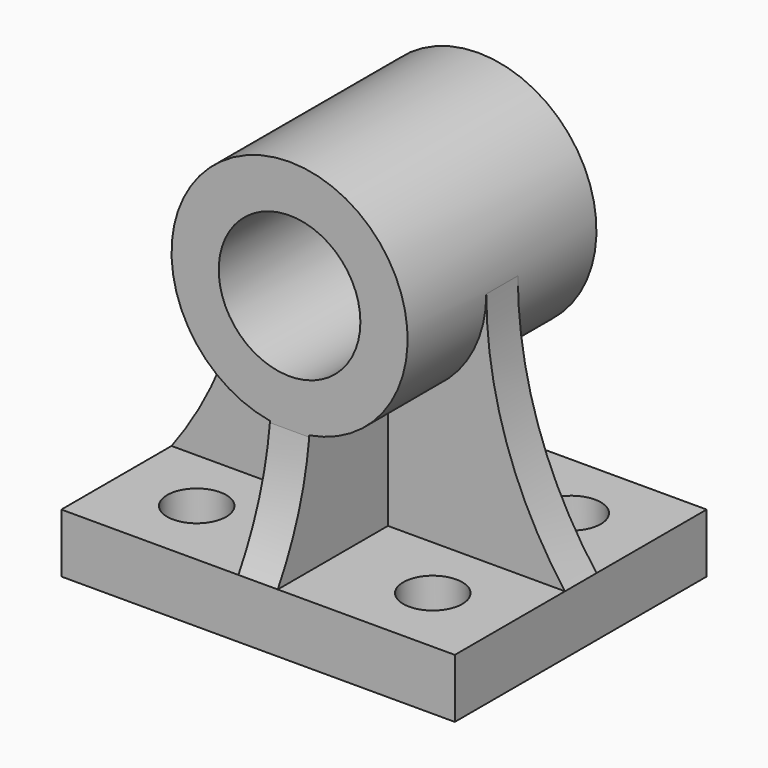
from build123d import *

# Parameters (mm, degrees)
F0_W     = 100
F0_H     = 15
F1_DEPTH = 40
F0_R     = 18
F2_DEPTH = 30
F3_DEPTH = 5
F6_DEPTH = 10
F7_R     = 7.5
F8_DEPTH = 15


with BuildPart() as f1:
    # F0 (on Front) → F1 (new body, symmetric)
    with BuildSketch(Plane.XZ):
        with Locations((50, 7.5)):
            Rectangle(F0_W, F0_H)
    extrude(amount=F1_DEPTH, both=True)



with BuildPart() as f2:
    # F0 (on Front) → F2 (new body, symmetric)
    with BuildSketch(Plane.XZ):
        with BuildLine():
            ThreePointArc((80, 75), (50, 105), (20, 75))
            ThreePointArc((20, 75), (50, 45), (80, 75))
        make_face()
        with Locations((50, 75)):
            Circle(F0_R, mode=Mode.SUBTRACT)
    extrude(amount=F2_DEPTH, both=True)


with BuildPart() as f1_1:
    add(f1.part)

    add(f2.part)  # F3 merges F2
    # F0 (on Front) → F3 (join, symmetric)
    with BuildSketch(Plane.XZ):
        with BuildLine():
            ThreePointArc((20, 75), (14.86833, 43.377223), (0, 15))
            Line((0, 15), (100, 15))
            ThreePointArc((100, 15), (85.13167, 43.377223), (80, 75))
            ThreePointArc((80, 75), (50, 45), (20, 75))
        make_face()
    extrude(amount=F3_DEPTH, both=True)

    # F5 (on offset) → F6 (join)
    with BuildSketch(Plane.YZ.offset(45)):
        with BuildLine():
            ThreePointArc((40, 15), (33.400891, 29.466964), (30, 45))
            Line((30, 45), (30.077839, 53.216796))
            Line((30.077839, 53.216796), (-30, 53.216796))
            Line((-30, 53.216796), (-30, 45))
            ThreePointArc((-30, 45), (-33.400891, 29.466964), (-40, 15))
            Line((-40, 15), (-5, 15))
            Line((-5, 15), (5, 15))
            Line((5, 15), (40, 15))
        make_face()
    extrude(amount=F6_DEPTH)

    # F7 (on face) → F8 (cut, through all)
    with BuildSketch(Plane(origin=(0, 0, 0), x_dir=(1, 0, 0), z_dir=(0, 0, -1))):
        with Locations((80, -22)):
            Circle(F7_R)
        with Locations((20, -22)):
            Circle(F7_R)
        with Locations((80, 22)):
            Circle(F7_R)
        with Locations((20, 22)):
            Circle(F7_R)
    extrude(amount=-F8_DEPTH, mode=Mode.SUBTRACT)


solid = f1_1.part
